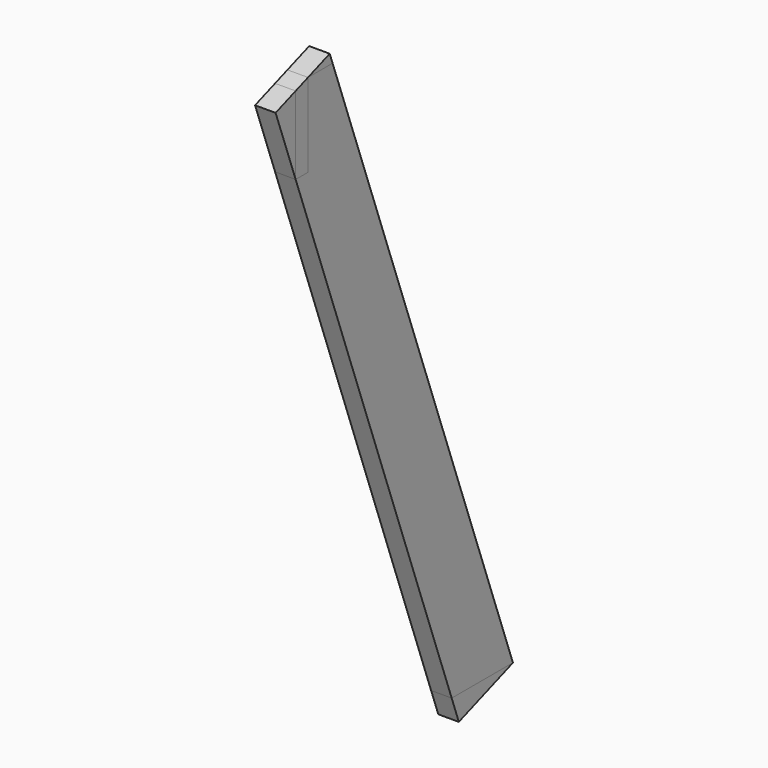
from build123d import *

# Parameters (mm, degrees)
F1_DEPTH = 25.4
F2_DEPTH = 25.4
F3_DEPTH = 25.4
F4_DEPTH = 25.4
F5_DEPTH = 25.4


with BuildPart() as f1:
    # F0 (on Right) → F1 (new body)
    with BuildSketch(Plane.YZ):
        Polygon((691.266814, 330.62366), (657.713537, 318.411266), (695.711762, 318.411266), align=None)
    extrude(amount=F1_DEPTH)


with BuildPart() as f2:
    # F0 (on Right) → F2 (new body)
    with BuildSketch(Plane.YZ):
        Polygon((607.72814, 300.218069), (638.663537, 215.223766), (638.663537, 311.477633), align=None)
    extrude(amount=F2_DEPTH)


with BuildPart() as f3:
    # F0 (on Right) → F3 (new body)
    with BuildSketch(Plane.YZ):
        Polygon((974.248691, -446.862658), (879.643287, -446.862658), (890.710017, -477.268249), align=None)
    extrude(amount=F3_DEPTH)


with BuildPart() as f4:
    # F0 (on Right) → F4 (new body)
    with BuildSketch(Plane.YZ):
        Polygon((638.663537, 311.477633), (638.663537, 215.223766), (657.713537, 215.223766), (657.713537, 318.411266), align=None)
    extrude(amount=F4_DEPTH)


with BuildPart() as f5:
    # F0 (on Right) → F5 (new body)
    with BuildSketch(Plane.YZ):
        Polygon((657.713537, 215.223766), (638.663537, 215.223766), (879.643287, -446.862658), (974.248691, -446.862658), (695.711762, 318.411266), (657.713537, 318.411266), align=None)
    extrude(amount=F5_DEPTH)


solid = Compound([f1.part, f2.part, f3.part, f4.part, f5.part])
